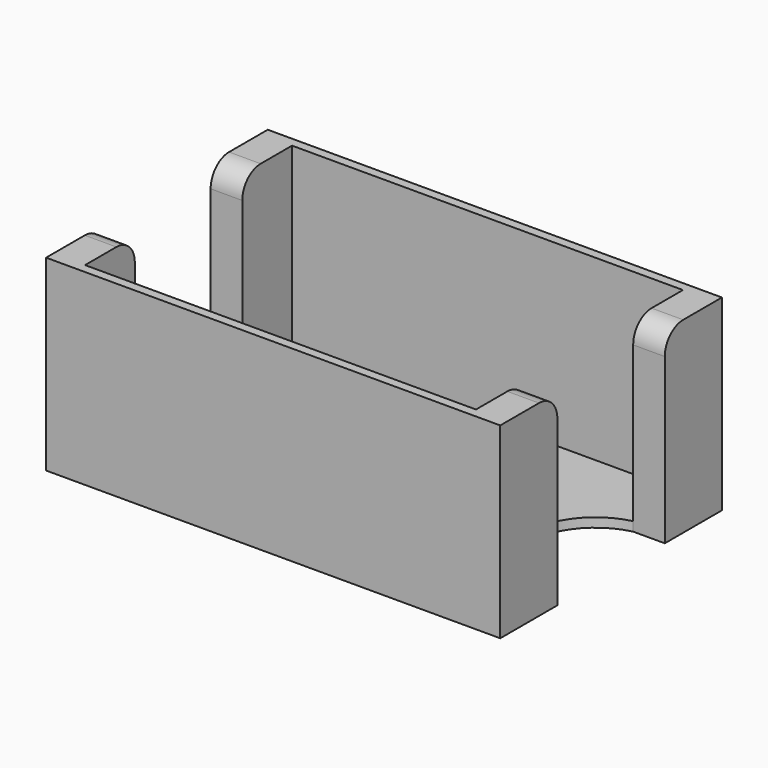
from build123d import *

# Parameters (mm, degrees)
SKETCH029_W          = 79
SKETCH029_H          = 48.2
SKETCH029_W_2        = 68
SKETCH029_H_2        = 45
PAD015_DEPTH         = 31
SKETCH091_W          = 79
SKETCH091_H          = 48.2
PAD054_DEPTH         = 1.6
POCKET037_DEPTH      = 1.601
POCKET037_DEPTH_BACK = 31.001
FILLET009_R          = 4


with BuildPart() as part:
    # Sketch029 → Pad015 (new body)
    with BuildSketch(Plane.XY):
        Rectangle(SKETCH029_W, SKETCH029_H)
        Rectangle(SKETCH029_W_2, SKETCH029_H_2, mode=Mode.SUBTRACT)
    extrude(amount=PAD015_DEPTH)

    # Sketch091 → Pad054 (join)
    with BuildSketch(Plane.XY):
        Rectangle(SKETCH091_W, SKETCH091_H)
    extrude(amount=-PAD054_DEPTH)

    # Sketch030 → Pocket037 (cut, two sides)
    with BuildSketch(Plane.XY) as pocket037_sk:
        with BuildLine():
            ThreePointArc((-34, -11.680646), (-24.75, 0), (-34, 11.680646))
            Line((-34, 11.680646), (-39.5, 11.680646))
            Line((-39.5, 11.680646), (-39.5, -11.680646))
            Line((-34, -11.680646), (-39.5, -11.680646))
        make_face()
        with BuildLine():
            ThreePointArc((34, 11.680646), (24.75, 0), (34, -11.680646))
            Line((34, -11.680646), (39.5, -11.680646))
            Line((39.5, 11.680646), (39.5, -11.680646))
            Line((34, 11.680646), (39.5, 11.680646))
        make_face()
    extrude(amount=-POCKET037_DEPTH, mode=Mode.SUBTRACT)
    extrude(pocket037_sk.sketch, amount=POCKET037_DEPTH_BACK, mode=Mode.SUBTRACT)

    # Fillet009
    fillet009_edges = [part.edges().sort_by_distance(p)[0] for p in [
        (36.75, 11.680646, 31),
        (36.75, -11.680646, 31),
        (-36.75, 11.680646, 31),
        (-36.75, -11.680646, 31),
    ]]
    fillet(fillet009_edges, radius=FILLET009_R)


solid = part.part
